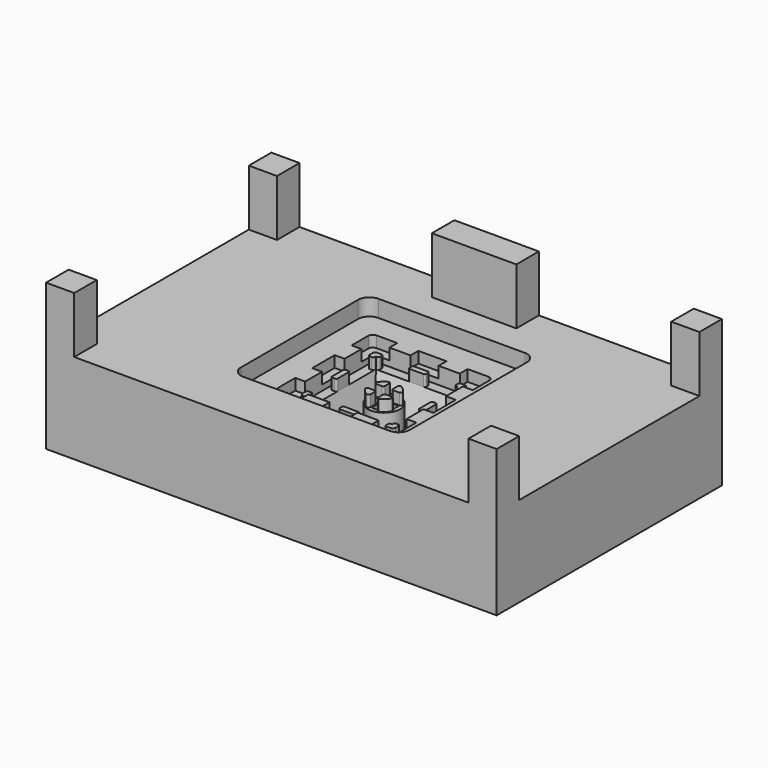
from build123d import *

# Parameters (mm, degrees)
F0_W      = 80
F0_H      = 50
F1_DEPTH  = 10
F5_W      = 14.5
F5_H      = 14.5
F4_W      = 11.5
F4_H      = 12.5
F2_R      = 2.875
F7_DEPTH  = 5
F8_W      = 10
F8_H      = 10
F8_W_2    = 15
F8_H_2    = 5
F9_DEPTH  = 3
F10_DEPTH = 6
F12_W     = 5
F12_H     = 5
F13_DEPTH = 10
F15_DEPTH = 2
F17_W     = 1.75
F17_H     = 5
F17_W_2   = 5
F17_H_2   = 1.75
F18_DEPTH = 25
F19_DEPTH = 1
F21_DEPTH = 0.5
F22_ANGLE = 180


with BuildPart() as f1:
    # F0 (on Top) → F1 (new body)
    with BuildSketch(Plane.XY):
        Rectangle(F0_W, F0_H)
    extrude(amount=F1_DEPTH)

    # F5 (on Top) → F6 section 0
    with BuildSketch(Plane.XY):
        Rectangle(F5_W, F5_H)
    # F4 (on offset) → F6 section 1
    with BuildSketch(Plane.XY.offset(5)):
        with Locations((0, -1)):
            Rectangle(F4_W, F4_H)
    loft(mode=Mode.SUBTRACT)

    # F2 (on Top) → F7 (join)
    with BuildSketch(Plane.XY):
        Circle(F2_R)
        Polygon((2.125, 0.6355427786), (2.1244929531, -0.6388534093), (0.5368771143, -0.6376440354), (0.5368771143, -2.1262044207), (-0.538027647, -2.1229702867), (-0.538027647, -0.6368252215), (-2.1255070469, -0.6356159516), (-2.125, 0.6406598457), (-0.538027647, 0.6387491059), (-0.538027647, 2.1270297133), (0.5368771143, 2.1237955793), (0.5368771143, 0.6374549036), align=None, mode=Mode.SUBTRACT)
    extrude(amount=F7_DEPTH)

    # F8 (on face) → F9 (join)
    with BuildSketch(Plane.XY):
        Polygon((7.5, 20), (-7.5, 20), (-7.5, 25), (-30, 25), (-30, 15), (-40, 15), (-40, -15), (-30, -15), (-30, -25), (30, -25), (30, -15), (40, -15), (40, 15), (30, 15), (30, 25), (7.5, 25), align=None)
        with BuildLine():
            ThreePointArc((15, -13), (14.4142135624, -14.4142135624), (13, -15))
            Line((13, -15), (-13, -15))
            ThreePointArc((-13, -15), (-14.4142135624, -14.4142135624), (-15, -13))
            Line((-15, -13), (-15, 13))
            ThreePointArc((-15, 13), (-14.4142135624, 14.4142135624), (-13, 15))
            Line((-13, 15), (13, 15))
            ThreePointArc((13, 15), (14.4142135624, 14.4142135624), (15, 13))
            Line((15, 13), (15, -13))
        make_face(mode=Mode.SUBTRACT)
        with BuildLine():
            Line((-13, -15), (13, -15))
            ThreePointArc((13, -15), (14.4142135624, -14.4142135624), (15, -13))
            Line((15, -13), (15, 13))
            ThreePointArc((15, 13), (14.4142135624, 14.4142135624), (13, 15))
            Line((13, 15), (-13, 15))
            ThreePointArc((-13, 15), (-14.4142135624, 14.4142135624), (-15, 13))
            Line((-15, 13), (-15, -13))
            ThreePointArc((-15, -13), (-14.4142135624, -14.4142135624), (-13, -15))
        make_face()
        with BuildLine():
            Line((-8, 9), (8, 9))
            ThreePointArc((8, 9), (8.7071067812, 8.7071067812), (9, 8))
            Line((9, 8), (9, -8))
            ThreePointArc((9, -8), (8.7071067812, -8.7071067812), (8, -9))
            Line((8, -9), (-8, -9))
            ThreePointArc((-8, -9), (-8.7071067812, -8.7071067812), (-9, -8))
            Line((-9, -8), (-9, 8))
            ThreePointArc((-9, 8), (-8.7071067812, 8.7071067812), (-8, 9))
        make_face(mode=Mode.SUBTRACT)
        with Locations((35, -20)):
            Rectangle(F8_W, F8_H)
        with Locations((35, 20)):
            Rectangle(F8_W, F8_H)
        with Locations((-35, 20)):
            Rectangle(F8_W, F8_H)
        with Locations((-35, -20)):
            Rectangle(F8_W, F8_H)
        with Locations((0, 22.5)):
            Rectangle(F8_W_2, F8_H_2)
    extrude(amount=-F9_DEPTH)

    # F8 (on face) → F10 (join)
    with BuildSketch(Plane.XY):
        Polygon((7.5, 20), (-7.5, 20), (-7.5, 25), (-30, 25), (-30, 15), (-40, 15), (-40, -15), (-30, -15), (-30, -25), (30, -25), (30, -15), (40, -15), (40, 15), (30, 15), (30, 25), (7.5, 25), align=None)
        with BuildLine():
            ThreePointArc((15, -13), (14.4142135624, -14.4142135624), (13, -15))
            Line((13, -15), (-13, -15))
            ThreePointArc((-13, -15), (-14.4142135624, -14.4142135624), (-15, -13))
            Line((-15, -13), (-15, 13))
            ThreePointArc((-15, 13), (-14.4142135624, 14.4142135624), (-13, 15))
            Line((-13, 15), (13, 15))
            ThreePointArc((13, 15), (14.4142135624, 14.4142135624), (15, 13))
            Line((15, 13), (15, -13))
        make_face(mode=Mode.SUBTRACT)
        with Locations((35, -20)):
            Rectangle(F8_W, F8_H)
        with Locations((35, 20)):
            Rectangle(F8_W, F8_H)
        with Locations((-35, 20)):
            Rectangle(F8_W, F8_H)
        with Locations((0, 22.5)):
            Rectangle(F8_W_2, F8_H_2)
        with Locations((-35, -20)):
            Rectangle(F8_W, F8_H)
    extrude(amount=-F10_DEPTH)

    # F12 (on face) → F13 (join)
    with BuildSketch(Plane(origin=(0, 0, -6), x_dir=(1, 0, 0), z_dir=(0, 0, -1))):
        with Locations((-37.5, 22.5)):
            Rectangle(F12_W, F12_H)
        with Locations((37.5, 22.5)):
            Rectangle(F12_W, F12_H)
        with Locations((37.5, -22.5)):
            Rectangle(F12_W, F12_H)
        Polygon((-7.5, -25), (7.5, -25), (7.5, -20), (0, -20), (-7.5, -20), align=None)
        with Locations((-37.5, -22.5)):
            Rectangle(F12_W, F12_H)
    extrude(amount=F13_DEPTH)

    # F14 (on face) → F15 (join)
    with BuildSketch(Plane(origin=(0, 0, 0), x_dir=(1, 0, 0), z_dir=(0, 0, -1))):
        with BuildLine():
            ThreePointArc((-2.0597934578, -0.8283625464), (-2.3179015071, -0.9754565789), (-2.3229018644, -1.2724943138))
            ThreePointArc((-2.3229018644, -1.2724943138), (-1.8134451569, -1.9304226255), (-1.1249952176, -2.3978116295))
            ThreePointArc((-1.1249952176, -2.3978116295), (-0.8366781893, -2.3794253316), (-0.6975702481, -2.1262184095))
            Line((-0.6975702481, -2.1262184095), (-0.6975702481, -1.1283625464))
            ThreePointArc((-0.6975702481, -1.1283625464), (-0.7854382138, -0.916230512), (-0.9975702481, -0.8283625464))
            Line((-0.9975702481, -0.8283625464), (-2.0597934578, -0.8283625464))
        make_face()
        with BuildLine():
            ThreePointArc((1.16034898, 2.3809042599), (0.8699051529, 2.3656163565), (0.7289195917, 2.1112260889))
            Line((0.7289195917, 2.1112260889), (0.7289195917, 1.1116324707))
            ThreePointArc((0.7289195917, 1.1116324707), (0.8167875573, 0.8995004363), (1.0289195917, 0.8116324707))
            Line((1.0289195917, 0.8116324707), (2.0688703137, 0.8116324707))
            ThreePointArc((2.0688703137, 0.8116324707), (2.326356647, 0.9576818677), (2.3331381555, 1.2536272163))
            ThreePointArc((2.3331381555, 1.2536272163), (1.8354295069, 1.9095322399), (1.16034898, 2.3809042599))
        make_face()
        with BuildLine():
            ThreePointArc((2.3229018644, -1.2724943138), (2.3179015071, -0.9754565789), (2.0597934578, -0.8283625464))
            Line((2.0597934578, -0.8283625464), (1.0289195917, -0.8283625464))
            ThreePointArc((1.0289195917, -0.8283625464), (0.8167875573, -0.916230512), (0.7289195917, -1.1283625464))
            Line((0.7289195917, -1.1283625464), (0.7289195917, -2.1112260889))
            ThreePointArc((0.7289195917, -2.1112260889), (0.8699051529, -2.3656163565), (1.16034898, -2.3809042599))
            ThreePointArc((1.16034898, -2.3809042599), (1.8276767393, -1.9169539866), (2.3229018644, -1.2724943138))
        make_face()
        with BuildLine():
            Line((-2.0688703137, 0.8116324707), (-0.9975702481, 0.8116324707))
            ThreePointArc((-0.9975702481, 0.8116324707), (-0.7854382138, 0.8995004363), (-0.6975702481, 1.1116324707))
            Line((-0.6975702481, 1.1116324707), (-0.6975702481, 2.1262184095))
            ThreePointArc((-0.6975702481, 2.1262184095), (-0.8366781893, 2.3794253316), (-1.1249952176, 2.3978116295))
            ThreePointArc((-1.1249952176, 2.3978116295), (-1.8212526182, 1.9230584366), (-2.3331381555, 1.2536272163))
            ThreePointArc((-2.3331381555, 1.2536272163), (-2.326356647, 0.9576818677), (-2.0688703137, 0.8116324707))
        make_face()
        with BuildLine():
            Line((-1.2, 7.25), (1.2, 7.25))
            ThreePointArc((1.2, 7.25), (1.4121320344, 7.3378679656), (1.5, 7.55))
            Line((1.5, 7.55), (1.5, 7.95))
            ThreePointArc((1.5, 7.95), (1.4121320344, 8.1621320344), (1.2, 8.25))
            Line((1.2, 8.25), (-1.2, 8.25))
            ThreePointArc((-1.2, 8.25), (-1.4121320344, 8.1621320344), (-1.5, 7.95))
            Line((-1.5, 7.95), (-1.5, 7.55))
            ThreePointArc((-1.5, 7.55), (-1.4121320344, 7.3378679656), (-1.2, 7.25))
        make_face()
        with BuildLine():
            ThreePointArc((1.2, -8.25), (1.4121320344, -8.1621320344), (1.5, -7.95))
            Line((1.5, -7.95), (1.5, -7.55))
            ThreePointArc((1.5, -7.55), (1.4121320344, -7.3378679656), (1.2, -7.25))
            Line((1.2, -7.25), (-1.2, -7.25))
            ThreePointArc((-1.2, -7.25), (-1.4121320344, -7.3378679656), (-1.5, -7.55))
            Line((-1.5, -7.55), (-1.5, -7.95))
            ThreePointArc((-1.5, -7.95), (-1.4121320344, -8.1621320344), (-1.2, -8.25))
            Line((-1.2, -8.25), (1.2, -8.25))
        make_face()
        with BuildLine():
            Line((-7.25, -1.2), (-7.25, 1.2))
            ThreePointArc((-7.25, 1.2), (-7.3378679656, 1.4121320344), (-7.55, 1.5))
            Line((-7.55, 1.5), (-7.95, 1.5))
            ThreePointArc((-7.95, 1.5), (-8.1621320344, 1.4121320344), (-8.25, 1.2))
            Line((-8.25, 1.2), (-8.25, -1.2))
            ThreePointArc((-8.25, -1.2), (-8.1621320344, -1.4121320344), (-7.95, -1.5))
            Line((-7.95, -1.5), (-7.55, -1.5))
            ThreePointArc((-7.55, -1.5), (-7.3378679656, -1.4121320344), (-7.25, -1.2))
        make_face()
        with BuildLine():
            ThreePointArc((7.95, -1.5), (8.1621320344, -1.4121320344), (8.25, -1.2))
            Line((8.25, -1.2), (8.25, 1.2))
            ThreePointArc((8.25, 1.2), (8.1621320344, 1.4121320344), (7.95, 1.5))
            Line((7.95, 1.5), (7.55, 1.5))
            ThreePointArc((7.55, 1.5), (7.3378679656, 1.4121320344), (7.25, 1.2))
            Line((7.25, 1.2), (7.25, -1.2))
            ThreePointArc((7.25, -1.2), (7.3378679656, -1.4121320344), (7.55, -1.5))
            Line((7.55, -1.5), (7.95, -1.5))
        make_face()
        with BuildLine():
            Line((8.25, -7.75), (8.25, -7.25))
            Line((8.25, -7.25), (8.25, -7.05))
            ThreePointArc((8.25, -7.05), (8.1621320344, -6.8378679656), (7.95, -6.75))
            Line((7.95, -6.75), (7.55, -6.75))
            ThreePointArc((7.55, -6.75), (7.3378679656, -6.8378679656), (7.25, -7.05))
            Line((7.25, -7.05), (7.25, -7.25))
            Line((7.25, -7.25), (7.05, -7.25))
            ThreePointArc((7.05, -7.25), (6.8378679656, -7.3378679656), (6.75, -7.55))
            Line((6.75, -7.55), (6.75, -7.95))
            ThreePointArc((6.75, -7.95), (6.8378679656, -8.1621320344), (7.05, -8.25))
            Line((7.05, -8.25), (7.25, -8.25))
            Line((7.25, -8.25), (7.75, -8.25))
            ThreePointArc((7.75, -8.25), (8.1035533906, -8.1035533906), (8.25, -7.75))
        make_face()
        with BuildLine():
            ThreePointArc((-6.75, -7.55), (-6.8378679656, -7.3378679656), (-7.05, -7.25))
            Line((-7.05, -7.25), (-7.25, -7.25))
            Line((-7.25, -7.25), (-7.25, -7.05))
            ThreePointArc((-7.25, -7.05), (-7.3378679656, -6.8378679656), (-7.55, -6.75))
            Line((-7.55, -6.75), (-7.95, -6.75))
            ThreePointArc((-7.95, -6.75), (-8.1621320344, -6.8378679656), (-8.25, -7.05))
            Line((-8.25, -7.05), (-8.25, -7.25))
            Line((-8.25, -7.25), (-8.25, -7.75))
            ThreePointArc((-8.25, -7.75), (-8.1035533906, -8.1035533906), (-7.75, -8.25))
            Line((-7.75, -8.25), (-7.25, -8.25))
            Line((-7.25, -8.25), (-7.05, -8.25))
            ThreePointArc((-7.05, -8.25), (-6.8378679656, -8.1621320344), (-6.75, -7.95))
            Line((-6.75, -7.95), (-6.75, -7.55))
        make_face()
        with BuildLine():
            ThreePointArc((6.75, 7.55), (6.8378679656, 7.3378679656), (7.05, 7.25))
            Line((7.05, 7.25), (7.25, 7.25))
            Line((7.25, 7.25), (7.25, 7.05))
            ThreePointArc((7.25, 7.05), (7.3378679656, 6.8378679656), (7.55, 6.75))
            Line((7.55, 6.75), (7.95, 6.75))
            ThreePointArc((7.95, 6.75), (8.1621320344, 6.8378679656), (8.25, 7.05))
            Line((8.25, 7.05), (8.25, 7.25))
            Line((8.25, 7.25), (8.25, 7.75))
            ThreePointArc((8.25, 7.75), (8.1035533906, 8.1035533906), (7.75, 8.25))
            Line((7.75, 8.25), (7.25, 8.25))
            Line((7.25, 8.25), (7.05, 8.25))
            ThreePointArc((7.05, 8.25), (6.8378679656, 8.1621320344), (6.75, 7.95))
            Line((6.75, 7.95), (6.75, 7.55))
        make_face()
        with BuildLine():
            Line((-7.25, 7.25), (-7.05, 7.25))
            ThreePointArc((-7.05, 7.25), (-6.8378679656, 7.3378679656), (-6.75, 7.55))
            Line((-6.75, 7.55), (-6.75, 7.95))
            ThreePointArc((-6.75, 7.95), (-6.8378679656, 8.1621320344), (-7.05, 8.25))
            Line((-7.05, 8.25), (-7.25, 8.25))
            Line((-7.25, 8.25), (-7.75, 8.25))
            ThreePointArc((-7.75, 8.25), (-8.1035533906, 8.1035533906), (-8.25, 7.75))
            Line((-8.25, 7.75), (-8.25, 7.25))
            Line((-8.25, 7.25), (-8.25, 7.05))
            ThreePointArc((-8.25, 7.05), (-8.1621320344, 6.8378679656), (-7.95, 6.75))
            Line((-7.95, 6.75), (-7.55, 6.75))
            ThreePointArc((-7.55, 6.75), (-7.3378679656, 6.8378679656), (-7.25, 7.05))
            Line((-7.25, 7.05), (-7.25, 7.25))
        make_face()
    extrude(amount=F15_DEPTH)

    # F17 (on face) → F18 (cut)
    with BuildSketch(Plane(origin=(0, 0, 0), x_dir=(1, 0, 0), z_dir=(0, 0, -1))):
        Polygon((-9, -2.5), (-9, 0), (-9, 2.5), (-10.4962587357, 2.5), (-10.75, 2.5), (-10.75, -2.5), align=None)
        with Locations((9.875, 0)):
            Rectangle(F17_W, F17_H)
        Polygon((2.5, -9), (0, -9), (-2.5, -9), (-2.5, -10.75), (2.5, -10.75), align=None)
        with Locations((0, 9.875)):
            Rectangle(F17_W_2, F17_H_2)
        with BuildLine():
            Line((-9.9436704107, -10.75), (-6.25, -10.75))
            Line((-6.25, -10.75), (-6.25, -9))
            Line((-6.25, -9), (-8, -9))
            ThreePointArc((-8, -9), (-8.7071067812, -8.7071067812), (-9, -8))
            Line((-9, -8), (-9, -6.25))
            Line((-9, -6.25), (-10.75, -6.25))
            Line((-10.75, -6.25), (-10.75, -9.9436704107))
            ThreePointArc((-10.75, -9.9436704107), (-10.5138315312, -10.5138315312), (-9.9436704107, -10.75))
        make_face()
        with BuildLine():
            Line((6.25, -9), (6.25, -10.75))
            Line((6.25, -10.75), (9.9436704107, -10.75))
            ThreePointArc((9.9436704107, -10.75), (10.5138315312, -10.5138315312), (10.75, -9.9436704107))
            Line((10.75, -9.9436704107), (10.75, -6.25))
            Line((10.75, -6.25), (9, -6.25))
            Line((9, -6.25), (9, -8))
            ThreePointArc((9, -8), (8.7071067812, -8.7071067812), (8, -9))
            Line((8, -9), (6.25, -9))
        make_face()
        with BuildLine():
            Line((9.9436704107, 10.75), (6.25, 10.75))
            Line((6.25, 10.75), (6.25, 9))
            Line((6.25, 9), (8, 9))
            ThreePointArc((8, 9), (8.7071067812, 8.7071067812), (9, 8))
            Line((9, 8), (9, 6.25))
            Line((9, 6.25), (10.75, 6.25))
            Line((10.75, 6.25), (10.75, 9.9436704107))
            ThreePointArc((10.75, 9.9436704107), (10.5138315312, 10.5138315312), (9.9436704107, 10.75))
        make_face()
        with BuildLine():
            ThreePointArc((-9.9436704107, 10.75), (-10.5138315312, 10.5138315312), (-10.75, 9.9436704107))
            Line((-10.75, 9.9436704107), (-10.75, 6.25))
            Line((-10.75, 6.25), (-9, 6.25))
            Line((-9, 6.25), (-9, 8))
            ThreePointArc((-9, 8), (-8.7071067812, 8.7071067812), (-8, 9))
            Line((-8, 9), (-6.25, 9))
            Line((-6.25, 9), (-6.25, 10.75))
            Line((-6.25, 10.75), (-9.9436704107, 10.75))
        make_face()
    extrude(amount=F18_DEPTH, mode=Mode.SUBTRACT)

    # F17 (on face) → F19 (join)
    with BuildSketch(Plane(origin=(0, 0, 0), x_dir=(1, 0, 0), z_dir=(0, 0, -1))):
        Polygon((-9, -2.5), (-9, 0), (-9, 2.5), (-10.4962587357, 2.5), (-10.75, 2.5), (-10.75, -2.5), align=None)
        with Locations((9.875, 0)):
            Rectangle(F17_W, F17_H)
        Polygon((2.5, -9), (0, -9), (-2.5, -9), (-2.5, -10.75), (2.5, -10.75), align=None)
        with Locations((0, 9.875)):
            Rectangle(F17_W_2, F17_H_2)
        with BuildLine():
            Line((-9.9436704107, -10.75), (-6.25, -10.75))
            Line((-6.25, -10.75), (-6.25, -9))
            Line((-6.25, -9), (-8, -9))
            ThreePointArc((-8, -9), (-8.7071067812, -8.7071067812), (-9, -8))
            Line((-9, -8), (-9, -6.25))
            Line((-9, -6.25), (-10.75, -6.25))
            Line((-10.75, -6.25), (-10.75, -9.9436704107))
            ThreePointArc((-10.75, -9.9436704107), (-10.5138315312, -10.5138315312), (-9.9436704107, -10.75))
        make_face()
        with BuildLine():
            Line((6.25, -9), (6.25, -10.75))
            Line((6.25, -10.75), (9.9436704107, -10.75))
            ThreePointArc((9.9436704107, -10.75), (10.5138315312, -10.5138315312), (10.75, -9.9436704107))
            Line((10.75, -9.9436704107), (10.75, -6.25))
            Line((10.75, -6.25), (9, -6.25))
            Line((9, -6.25), (9, -8))
            ThreePointArc((9, -8), (8.7071067812, -8.7071067812), (8, -9))
            Line((8, -9), (6.25, -9))
        make_face()
        with BuildLine():
            Line((9.9436704107, 10.75), (6.25, 10.75))
            Line((6.25, 10.75), (6.25, 9))
            Line((6.25, 9), (8, 9))
            ThreePointArc((8, 9), (8.7071067812, 8.7071067812), (9, 8))
            Line((9, 8), (9, 6.25))
            Line((9, 6.25), (10.75, 6.25))
            Line((10.75, 6.25), (10.75, 9.9436704107))
            ThreePointArc((10.75, 9.9436704107), (10.5138315312, 10.5138315312), (9.9436704107, 10.75))
        make_face()
        with BuildLine():
            ThreePointArc((-9.9436704107, 10.75), (-10.5138315312, 10.5138315312), (-10.75, 9.9436704107))
            Line((-10.75, 9.9436704107), (-10.75, 6.25))
            Line((-10.75, 6.25), (-9, 6.25))
            Line((-9, 6.25), (-9, 8))
            ThreePointArc((-9, 8), (-8.7071067812, 8.7071067812), (-8, 9))
            Line((-8, 9), (-6.25, 9))
            Line((-6.25, 9), (-6.25, 10.75))
            Line((-6.25, 10.75), (-9.9436704107, 10.75))
        make_face()
    extrude(amount=F19_DEPTH)

    # F20 (on face) → F21 (cut)
    with BuildSketch(Plane(origin=(0, 0, 5), x_dir=(1, 0, 0), z_dir=(0, 0, -1))):
        with BuildLine():
            Line((-3.285456391, 4.7750420666), (-3.7230788751, 4.340865393))
            ThreePointArc((-3.7230788751, 4.340865393), (-4.7188380521, 2.648618331), (-3.0187724546, 3.6309692977))
            Line((-3.0187724546, 3.6309692977), (-2.5811499706, 4.0651459713))
            Line((-2.5811499706, 4.0651459713), (-2.1435274865, 4.4993226449))
            ThreePointArc((-2.1435274865, 4.4993226449), (-1.1477683096, 6.1915697069), (-2.847833907, 5.2092187402))
            Line((-2.847833907, 5.2092187402), (-3.285456391, 4.7750420666))
        make_face()
    extrude(amount=-F21_DEPTH, mode=Mode.SUBTRACT)


with BuildPart() as f1_1:
    # F22: moved
    add(f1.part.rotate(Axis((-40, 0, 10), (0, 1, 0)), F22_ANGLE))


solid = f1_1.part
